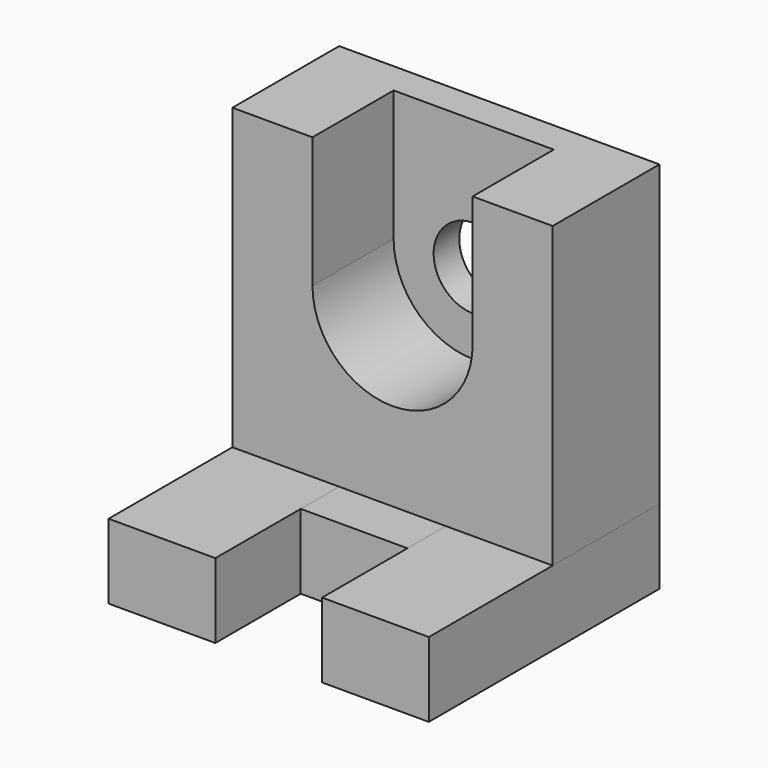
from build123d import *

# Parameters (mm, degrees)
F0_W     = 20
F0_H     = 14
F1_DEPTH = 54
F2_DEPTH = 34
F3_DEPTH = 25
F0_R     = 7.5
F4_DEPTH = 6


with BuildPart() as f1:
    # F0 (on Front) → F1 (new body)
    with BuildSketch(Plane.XZ):
        with Locations((20, -28)):
            Rectangle(F0_W, F0_H)
        with Locations((-20, -28)):
            Rectangle(F0_W, F0_H)
    extrude(amount=F1_DEPTH)


with BuildPart() as f2:
    # F0 (on Front) → F2 (new body)
    with BuildSketch(Plane.XZ):
        with Locations((0, -28)):
            Rectangle(F0_W, F0_H)
    extrude(amount=F2_DEPTH)


with BuildPart() as f3:
    # F0 (on Front) → F3 (new body)
    with BuildSketch(Plane.XZ):
        with BuildLine():
            Line((-30, 35), (-30, -21))
            Line((-30, -21), (-10, -21))
            Line((-10, -21), (10, -21))
            Line((10, -21), (30, -21))
            Line((30, -21), (30, 35))
            Line((30, 35), (15, 35))
            Line((15, 35), (15, 10.530524))
            ThreePointArc((15, 10.530524), (0, -4.469476), (-15, 10.530524))
            Line((-15, 10.530524), (-15, 35))
            Line((-15, 35), (-30, 35))
        make_face()
    extrude(amount=F3_DEPTH)

    # F0 (on Front) → F4 (join)
    with BuildSketch(Plane.XZ):
        with BuildLine():
            Line((15, 35), (-15, 35))
            Line((-15, 35), (-15, 10.530524))
            ThreePointArc((-15, 10.530524), (0, -4.469476), (15, 10.530524))
            Line((15, 10.530524), (15, 35))
        make_face()
        with Locations((0, 10.530524)):
            Circle(F0_R, mode=Mode.SUBTRACT)
    extrude(amount=F4_DEPTH)


solid = Compound([f1.part, f2.part, f3.part])
